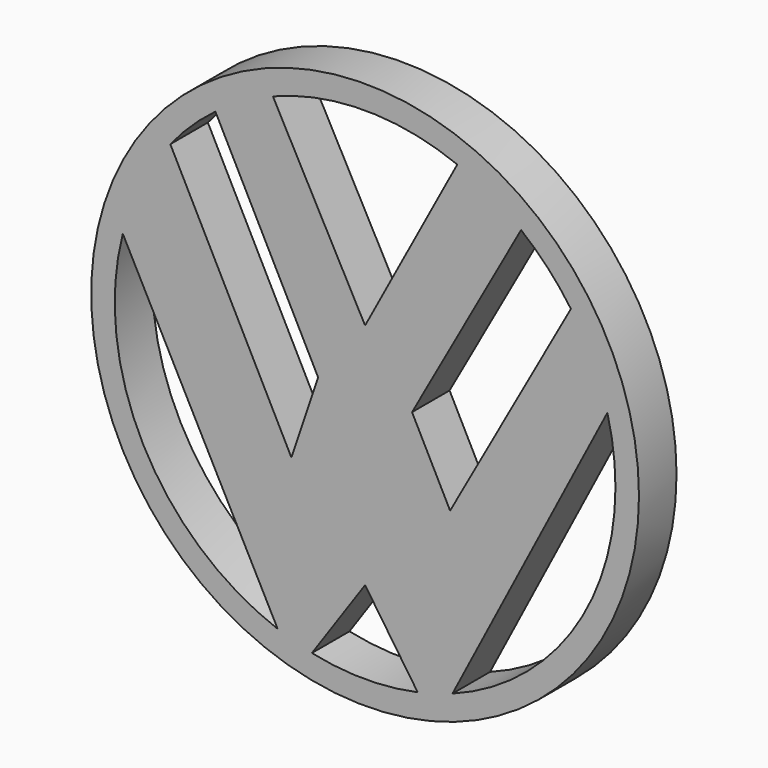
from build123d import *

# Parameters (mm, degrees)
F0_R     = 37.049444
F1_DEPTH = 6.35


with BuildPart() as f1:
    # F0 (on Front) → F1 (new body)
    with BuildSketch(Plane.XZ):
        Circle(F0_R)
        with BuildLine():
            ThreePointArc((32.775383, 8.520914), (33.591419, 4.295144), (33.864904, 0))
            ThreePointArc((33.864904, 0), (27.812587, -19.320759), (11.818969, -31.735527))
            ThreePointArc((11.818969, -31.735527), (9.491898, -32.507469), (7.115076, -33.109023))
            ThreePointArc((7.115076, -33.109023), (-0.041069, -33.864879), (-7.19536, -33.091668))
            ThreePointArc((-7.19536, -33.091668), (-9.531315, -32.495934), (-11.818969, -31.735527))
            ThreePointArc((-11.818969, -31.735527), (-30.038464, -15.637212), (-32.775383, 8.520914))
            ThreePointArc((-32.775383, 8.520914), (-30.241055, 15.241729), (-26.346281, 21.276869))
            ThreePointArc((-26.346281, 21.276869), (-23.481444, 24.401916), (-20.248603, 27.144535))
            ThreePointArc((-20.248603, 27.144535), (-16.503137, 29.571577), (-12.471031, 31.484998))
            ThreePointArc((-12.471031, 31.484998), (0, 33.864904), (12.471031, 31.484998))
            ThreePointArc((12.471031, 31.484998), (16.970465, 29.305887), (21.100053, 26.4881))
            ThreePointArc((21.100053, 26.4881), (24.733428, 23.131996), (27.839175, 19.282428))
            ThreePointArc((27.839175, 19.282428), (30.781223, 14.119065), (32.775383, 8.520914))
        make_face(mode=Mode.SUBTRACT)
        with BuildLine():
            Line((11.818969, -31.735527), (32.775383, 8.520914))
            ThreePointArc((32.775383, 8.520914), (30.781223, 14.119065), (27.839175, 19.282428))
            Line((27.839175, 19.282428), (11.500335, -10.058812))
            Line((11.500335, -10.058812), (6.35, 0))
            Line((6.35, 0), (-6.35, 0))
            Line((-6.35, 0), (-9.970913, -10.704888))
            Line((-9.970913, -10.704888), (-26.346281, 21.276869))
            ThreePointArc((-26.346281, 21.276869), (-30.241055, 15.241729), (-32.775383, 8.520914))
            Line((-32.775383, 8.520914), (-11.818969, -31.735527))
            ThreePointArc((-11.818969, -31.735527), (-9.531315, -32.495934), (-7.19536, -33.091668))
            Line((-7.19536, -33.091668), (0, -22.65686))
            Line((0, -22.65686), (7.115076, -33.109023))
            ThreePointArc((7.115076, -33.109023), (9.491898, -32.507469), (11.818969, -31.735527))
        make_face()
        with BuildLine():
            Line((6.35, 0), (21.100053, 26.4881))
            ThreePointArc((21.100053, 26.4881), (16.970465, 29.305887), (12.471031, 31.484998))
            Line((12.471031, 31.484998), (0, 8.249764))
            Line((0, 8.249764), (-12.471031, 31.484998))
            ThreePointArc((-12.471031, 31.484998), (-16.503137, 29.571577), (-20.248603, 27.144535))
            Line((-20.248603, 27.144535), (-6.35, 0))
            Line((-6.35, 0), (6.35, 0))
        make_face()
    extrude(amount=F1_DEPTH)


solid = f1.part
